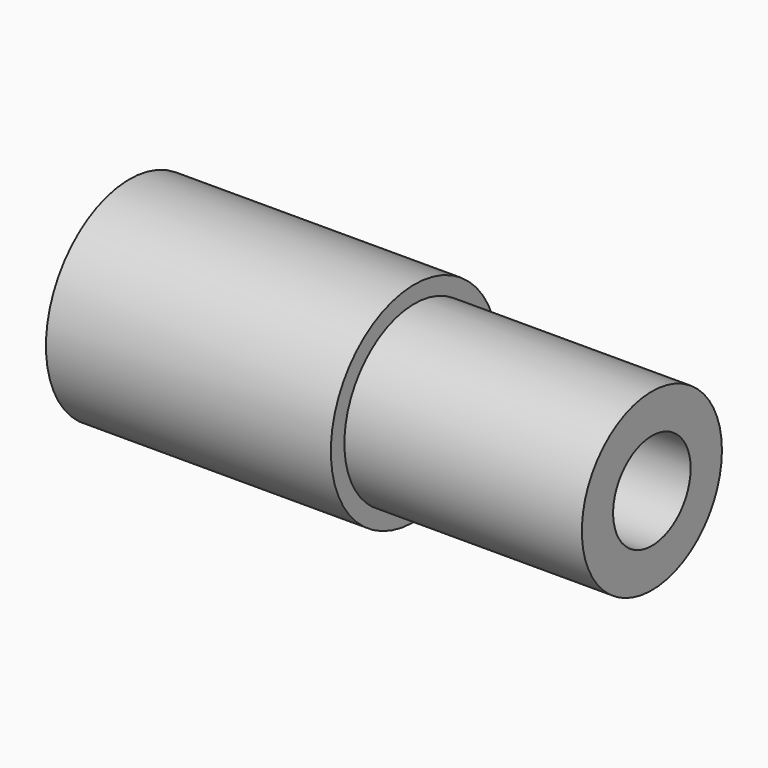
from build123d import *

# Parameters (mm, degrees)
F0_R     = 11
F0_R_2   = 5.1
F1_DEPTH = 55
F2_R     = 12.841129
F2_R_2   = 9.2174
F3_DEPTH = 25


with BuildPart() as f1:
    # F0 (on Right) → F1 (new body)
    with BuildSketch(Plane.YZ):
        Circle(F0_R)
        Circle(F0_R_2, mode=Mode.SUBTRACT)
    extrude(amount=F1_DEPTH)

    # F2 (on face) → F3 (cut)
    with BuildSketch(Plane.YZ.offset(55)):
        Circle(F2_R)
        Circle(F2_R_2, mode=Mode.SUBTRACT)
    extrude(amount=-F3_DEPTH, mode=Mode.SUBTRACT)


solid = f1.part
